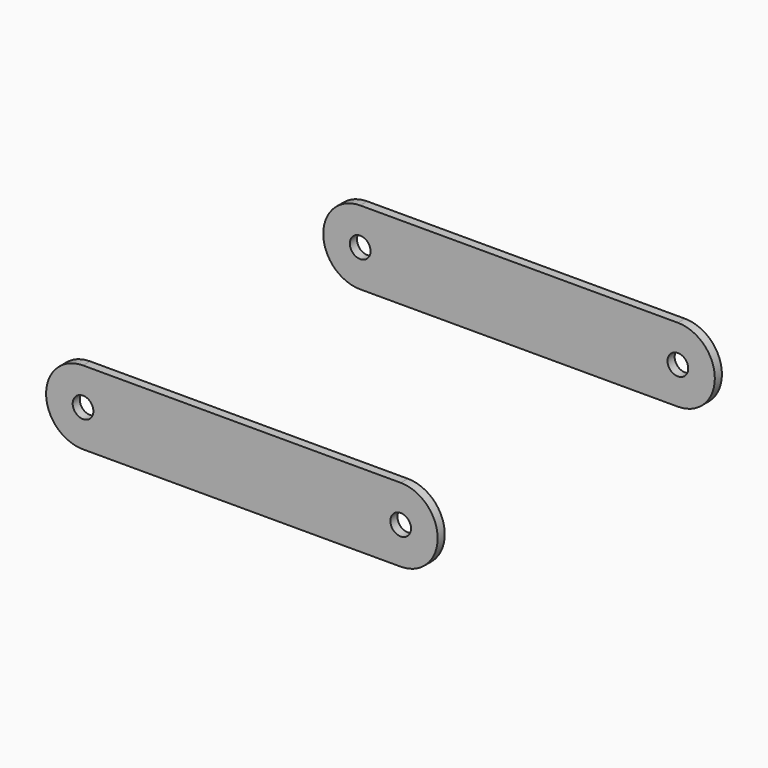
from build123d import *

# Parameters (mm, degrees)
SKETCH044_R  = 7
PAD009_DEPTH = 6


with BuildPart() as body006:
    # Sketch044 → Pad009 (new body)
    with BuildSketch(Plane.XZ):
        with BuildLine():
            Line((0, 25), (215, 25))
            ThreePointArc((215, -25), (240, 0), (215, 25))
            Line((215, -25), (0, -25))
            ThreePointArc((0, 25), (-25, 0), (0, -25))
        make_face()
        Circle(SKETCH044_R, mode=Mode.SUBTRACT)
        with Locations((215, 0)):
            Circle(SKETCH044_R, mode=Mode.SUBTRACT)
    extrude(amount=PAD009_DEPTH)


with BuildPart() as body006_1:
    # Body006 placement: moved
    add(body006.part.moved(Location((0, -114.25, 0))))


with BuildPart() as linkplate:
    # Mirror001: instance of Body006
    add(body006_1.part.mirror(Plane(origin=(-500, 0, 0), x_dir=(-1, 0, 0), z_dir=(0, -1, 0))))

    # Fusion015: union Body006
    add(body006_1.part)


solid = linkplate.part
